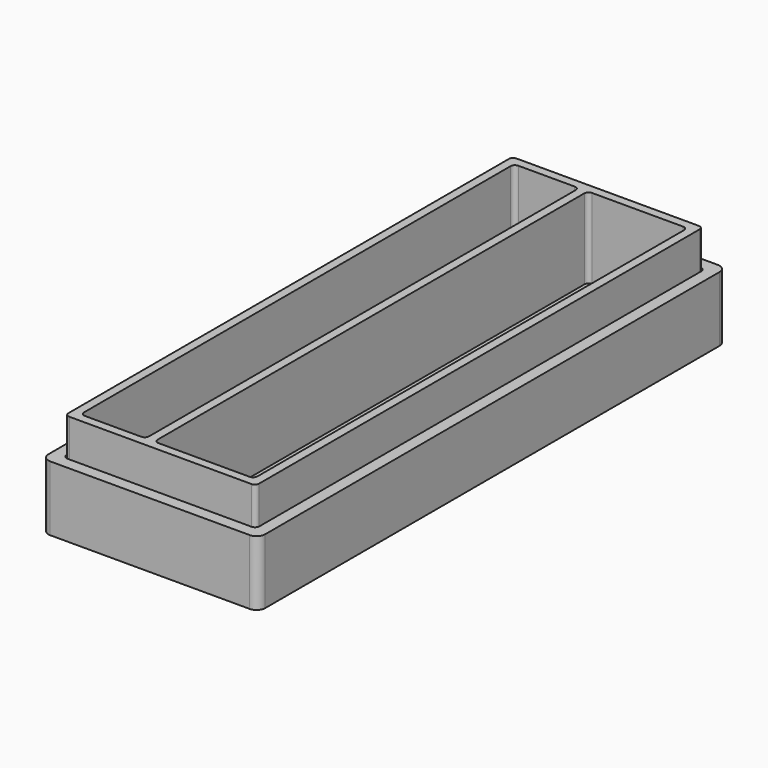
from build123d import *

# Parameters (mm, degrees)
SKETCH_W        = 44
SKETCH_H        = 129
PAD_DEPTH       = 23.5
SKETCH001_W     = 23
SKETCH001_H     = 125
POCKET_DEPTH    = 21.5
SKETCH002_W     = 15
SKETCH002_H     = 125
POCKET001_DEPTH = 15
FILLET002_R     = 1
FILLET003_R     = 1
FILLET004_R     = 1
SKETCH003_W     = 50
SKETCH003_H     = 135
PAD001_DEPTH    = 15
SKETCH004_W     = 44.5
SKETCH004_H     = 129.5
POCKET002_DEPTH = 10
FILLET_R        = 2
FILLET001_R     = 1


with BuildPart() as body:
    # Sketch → Pad (new body)
    with BuildSketch(Plane.XY):
        Rectangle(SKETCH_W, SKETCH_H)
    extrude(amount=PAD_DEPTH)

    # Sketch001 (on Face6 of Pad) → Pocket (cut)
    with BuildSketch(Plane.XY.offset(23.5)):
        with Locations((8.5, 0)):
            Rectangle(SKETCH001_W, SKETCH001_H)
    extrude(amount=-POCKET_DEPTH, mode=Mode.SUBTRACT)

    # Sketch002 (on Face5 of Pocket) → Pocket001 (cut)
    with BuildSketch(Plane.XY.offset(23.5)):
        with Locations((-12.5, 0)):
            Rectangle(SKETCH002_W, SKETCH002_H)
    extrude(amount=-POCKET001_DEPTH, mode=Mode.SUBTRACT)

    # Fillet002
    fillet002_edges = [body.edges().sort_by_distance(p)[0] for p in [
        (22, -64.5, 11.75),
        (-22, -64.5, 11.75),
        (22, 64.5, 11.75),
        (-22, 64.5, 11.75),
    ]]
    fillet(fillet002_edges, radius=FILLET002_R)

    # Fillet003
    fillet003_edges = [body.edges().sort_by_distance(p)[0] for p in [
        (-5, 62.5, 16),
        (-20, 62.5, 16),
        (-20, -62.5, 16),
        (-5, -62.5, 16),
    ]]
    fillet(fillet003_edges, radius=FILLET003_R)

    # Fillet004
    fillet004_edges = [body.edges().sort_by_distance(p)[0] for p in [
        (-3, -62.5, 12.75),
        (20, -62.5, 12.75),
        (20, 62.5, 12.75),
        (-3, 62.5, 12.75),
    ]]
    fillet(fillet004_edges, radius=FILLET004_R)


with BuildPart() as top:
    # Sketch003 → Pad001 (new body)
    with BuildSketch(Plane.XY):
        Rectangle(SKETCH003_W, SKETCH003_H)
    extrude(amount=PAD001_DEPTH)

    # Sketch004 (on Face6 of Pad001) → Pocket002 (cut)
    with BuildSketch(Plane.XY.offset(15)):
        Rectangle(SKETCH004_W, SKETCH004_H)
    extrude(amount=-POCKET002_DEPTH, mode=Mode.SUBTRACT)

    # Fillet
    fillet_edges = [top.edges().sort_by_distance(p)[0] for p in [
        (25, -67.5, 7.5),
        (-25, -67.5, 7.5),
        (-25, 67.5, 7.5),
        (25, 67.5, 7.5),
    ]]
    fillet(fillet_edges, radius=FILLET_R)

    # Fillet001
    fillet001_edges = [top.edges().sort_by_distance(p)[0] for p in [
        (22.25, -64.75, 10),
        (-22.25, -64.75, 10),
        (22.25, 64.75, 10),
        (-22.25, 64.75, 10),
    ]]
    fillet(fillet001_edges, radius=FILLET001_R)


solid = Compound([body.part, top.part])
